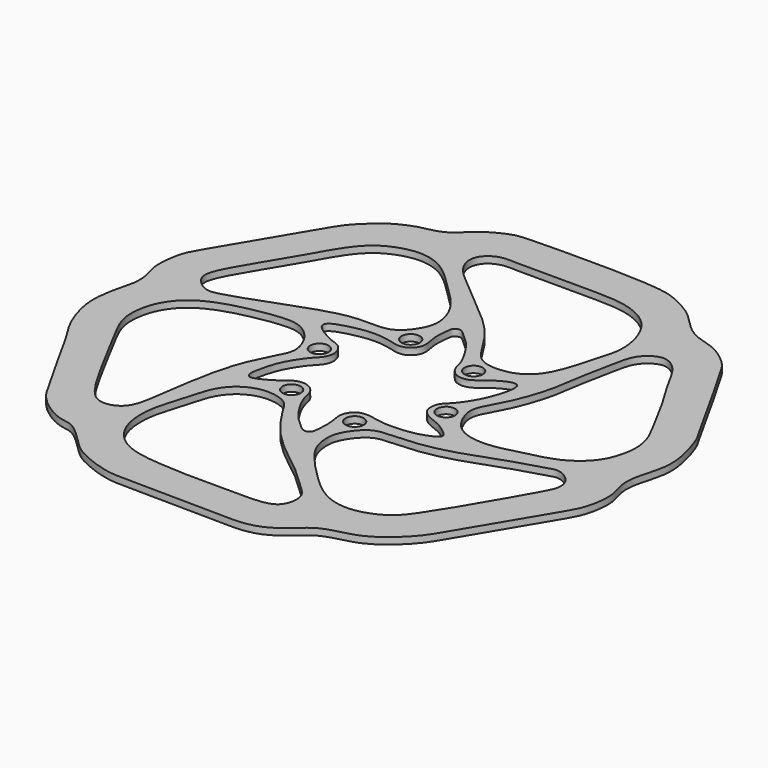
from build123d import *

# Parameters (mm, degrees)
F0_R     = 2.75
F1_DEPTH = 2


with BuildPart() as f1:
    # F0 (on Top) → F1 (new body)
    with BuildSketch(Plane.XY):
        with BuildLine():
            add(Edge.make_bspline(
                [(75.8951455355, 25.2666156739), (72.7695559852, 30.704777467), (61.0909880256, 52.0995373219), (58.2947218852, 56.0663811689), (52.5568238647, 60.5388395203), (47.974687152, 61.6135485886), (43.8285275087, 63.1961551669), (40.4924686315, 65.8703451213), (36.5355151891, 70.5069195072), (29.5956316097, 74.3386801617), (21.9201344434, 77.2327258752), (-15.5652607625, 76.8536806818), (-20.8974883789, 76.4256760394), (-26.1337112491, 73.9502564138), (-29.9045120085, 71.1229677276), (-32.7782298407, 67.882640912), (-36.6203720829, 66.1211520183), (-41.2736466996, 65.5087533335), (-47.4306224019, 62.7012388603), (-50.9956718005, 59.5826862536), (-54.9456448881, 55.8617354091), (-58.4376899011, 50.1886792965), (-71.9015498481, 27.1616871694), (-75.8858615037, 20.948745029), (-76.9134962313, 16.0351800218), (-77.264928961, 10.4811620627), (-75.7464244257, 6.6571529124), (-75.256942159, 1.9318160029), (-76.6393789244, -2.7423628902), (-78.0306784778, -9.6008106611), (-77.6852947168, -16.1766073534), (-74.6878004293, -24.623913846), (-71.1380115348, -29.7455868503), (-66.8710085475, -37.6335019341), (-58.1811225736, -53.1684938639), (-55.6952922978, -57.3104690491), (-51.7760562834, -61.0424506625), (-46.1104756436, -64.1598349054), (-42.1478924606, -64.1613837147), (-37.7332036467, -67.8427812492), (-33.5309761194, -72.4180556264), (-29.4006148459, -75.1144393122), (-20.767298482, -78.3475600598), (-14.3430159045, -78.3267325982), (-1.7622288923, -78.5820329894), (15.6945444701, -78.6870522516), (20.2213052783, -78.851793038), (26.4090578592, -77.7055216735), (32.0752453501, -73.4517149709), (35.0356343171, -70.3101177869), (39.3659916015, -68.3582322911), (44.8474710813, -67.2985644452), (50.345386024, -64.8597358709), (58.0122184304, -58.1788800028), (63.3353862388, -48.7510483691), (76.0167659289, -27.6141198566), (79.4623439322, -21.72204931), (80.6716746065, -13.1612465237), (78.5817709043, -8.3296024845), (78.5050196424, -3.033983596), (80.738267833, 3.6179912794), (81.5622241153, 10.7472368241), (78.2570359733, 21.4602915854), (77.1788593916, 23.033103073), (75.8951455355, 25.2666156739)],
                knots=[0, 0, 0, 0, 0.0326083544, 0.0470914405, 0.0622146413, 0.0752807875, 0.0875344419, 0.0996845738, 0.1143476155, 0.1303175661, 0.1482978033, 0.184322218, 0.1987619752, 0.2122653353, 0.2253069374, 0.2375414181, 0.2494532598, 0.2624064378, 0.2777250813, 0.2908020936, 0.3038926512, 0.3197399411, 0.3504373101, 0.3669355024, 0.379702113, 0.3935484944, 0.4056041666, 0.4182206086, 0.4313835866, 0.4469267907, 0.4623681769, 0.4799170991, 0.4944892321, 0.5126956281, 0.537722449, 0.5508960601, 0.5644028693, 0.5793591428, 0.5909174094, 0.6048417505, 0.6196106441, 0.6329687597, 0.6505975082, 0.6656111203, 0.6870703819, 0.711863658, 0.7245460474, 0.7390002926, 0.7547896372, 0.7670983206, 0.7797729666, 0.7937013511, 0.808257775, 0.8264906503, 0.8469497722, 0.8761650057, 0.8922931674, 0.9089398514, 0.9224785568, 0.9358376901, 0.9513442489, 0.9676851014, 0.9866073918, 1, 1, 1, 1], degree=3))
        make_face()
        with BuildLine():
            add(Edge.make_bspline(
                [(-13.5419592261, -67.1780854464), (-10.3114573953, -67.4606578747), (-4.567644643, -67.7763166203), (5.105665271, -67.5409783836), (16.0820025549, -67.9672474342), (21.7338671769, -66.7151317436), (23.4673109827, -63.3860796673), (23.7354215806, -59.0652293834), (19.8901140936, -55.2958339032), (12.0652778571, -47.9769036239), (6.2161777494, -43.9128147611), (0.1142851178, -38.36758284), (-4.1958513102, -33.0245500442), (-7.5530440098, -27.772968473), (-9.7955153224, -23.7618921674), (-15.7680955659, -22.0802583324), (-22.1363444113, -23.5281619482), (-27.552621071, -28.7328670537), (-29.2937497992, -37.5664440529), (-32.6583913856, -46.0785069067), (-32.4612290619, -57.3184040133), (-25.2993808878, -65.9243182318), (-17.1793918298, -66.8599187287), (-13.5419592261, -67.1780854464)],
                knots=[0, 0, 0, 0, 0.0523542224, 0.1070606025, 0.165443106, 0.2055713342, 0.2373918576, 0.2715894835, 0.3112793916, 0.3684416316, 0.4161562877, 0.4655873315, 0.5118536834, 0.5551493958, 0.5915747336, 0.6331388321, 0.6771129656, 0.7233368661, 0.7750474553, 0.8282688166, 0.8852685966, 0.9410509681, 1, 1, 1, 1], degree=3))
        make_face(mode=Mode.SUBTRACT)
        with BuildLine():
            add(Edge.make_bspline(
                [(-54.2876981199, 5.3316801786), (-56.5699341842, 4.4381092326), (-60.6933523308, 2.2312062329), (-65.6545362602, -3.9029735138), (-67.1193814024, -13.5268767906), (-63.4240165904, -21.1792118103), (-55.7023958159, -35.450252536), (-49.0599374287, -47.8907969423), (-43.8997390803, -52.126168453), (-36.4773620894, -49.8673691279), (-35.1899116933, -39.2740400622), (-33.1686015451, -25.9908052358), (-30.5208368463, -15.0154210158), (-26.1015388905, -6.792730482), (-23.7955929543, -2.0343121471), (-26.1091557652, 4.4504485465), (-31.0089502041, 8.8234623673), (-36.6912545673, 9.3374379516), (-45.8519060667, 7.8915577711), (-51.7186268064, 6.3375566171), (-54.2876981199, 5.3316801786)],
                knots=[0, 0, 0, 0, 0.0501080368, 0.1023318395, 0.159064636, 0.2136009821, 0.2906771375, 0.3623348628, 0.40785595, 0.4537980378, 0.5131024335, 0.5837444434, 0.6479780431, 0.704998294, 0.747123278, 0.7947782716, 0.8419353791, 0.8859903025, 0.9435943013, 1, 1, 1, 1], degree=3))
        make_face(mode=Mode.SUBTRACT)
        with Locations((-12.449584, -18.3119762417)):
            Circle(F0_R, mode=Mode.SUBTRACT)
        with BuildLine():
            add(Edge.make_bspline(
                [(13.4471775964, 11.7509076372), (14.579477873, 11.2608025044), (17.4062232858, 11.379821387), (20.357377561, 14.2991038065), (24.1172490177, 16.5173064972), (26.3997086013, 17.281323868), (27.7184367706, 16.9312307043), (28.5917710812, 14.9879148652), (26.3179611382, 6.5945672796), (21.7693649555, 0.0320494443), (19.2862741583, -1.896801467), (18.5285265615, -4.4313987118), (19.0641979613, -7.0655787957), (21.5322683396, -9.0745573943), (25.4186407744, -10.2362481162), (27.8054204045, -11.9572863931), (29.5914658675, -13.306081218), (30.4694646496, -14.721319894), (29.1380558974, -15.8864779956), (25.6031722747, -17.3322995555), (20.6925055836, -18.1822954746), (16.1807899381, -18.2198518316), (12.8581727994, -17.843400438), (9.6280625271, -16.9117042434), (6.6082176733, -17.5364180863), (4.9706750804, -19.5893204171), (4.4917446552, -21.650381349), (4.8962041435, -23.6624362586), (5.2756534676, -27.0139390699), (5.0205278977, -30.4454787766), (4.7875404, -31.9936561419), (3.7842808911, -32.9490723395), (2.1298102078, -32.6410809081), (0.4110514941, -30.9743151786), (-2.2493511007, -28.8736763731), (-5.8134924171, -23.7269603041), (-7.6169004531, -19.7546329284), (-7.9452472161, -17.161200994), (-9.1999354067, -15.0184318981), (-11.5689238088, -13.6737558874), (-14.5970225626, -13.9288263), (-16.636798462, -15.7490648848), (-20.0574968087, -18.0382005799), (-22.8811646577, -19.3054046552), (-24.7221477379, -19.5572386238), (-25.4943276215, -17.6623273147), (-24.9527349066, -15.1387465315), (-24.0717814227, -11.3821667445), (-22.8124389567, -8.1638834914), (-19.5967616552, -2.96325273), (-16.8016202981, -0.7111815569), (-15.8171147225, 2.6706802415), (-17.1995711634, 5.6432176127), (-19.1278990274, 6.8123135863), (-21.1459883103, 7.2882049065), (-24.0304978631, 8.8763288507), (-26.3600241084, 10.4309168476), (-27.3279055664, 11.5754990822), (-27.5066363164, 12.7882059527), (-26.154308109, 14.1735334098), (-21.7727591742, 15.4384154795), (-16.6193647642, 16.4922308067), (-11.0277084489, 16.1411260308), (-7.3534010573, 14.7901968272), (-4.531076902, 15.2753163504), (-2.4923128699, 17.3122145447), (-1.9414521248, 19.9152325201), (-3.1177611787, 23.978533195), (-2.4592866014, 28.2922880512), (-2.2884501767, 30.0605848676), (-0.2033413731, 30.7147338677), (1.279904851, 29.1599559184), (5.3012894235, 26.008606606), (8.8018986478, 20.1785799795), (10.3019860185, 16.9363839324), (10.6846685118, 14.1146983378), (12.3411698201, 12.2296323176), (13.4471775964, 11.7509076372)],
                knots=[0, 0, 0, 0, 0.0146324669, 0.0302077785, 0.0463084149, 0.0579123241, 0.0659426358, 0.0757562293, 0.0981718707, 0.1201651601, 0.1332649691, 0.1451113548, 0.1571852113, 0.1705036987, 0.1859343822, 0.1991213816, 0.2106008746, 0.2193927518, 0.2283557972, 0.2432964124, 0.2606613341, 0.2768833328, 0.2908420496, 0.3047633046, 0.3177847323, 0.3298005298, 0.3406166264, 0.3514235378, 0.3656363615, 0.3799205092, 0.3892793006, 0.3975077419, 0.4067863726, 0.4183689287, 0.4325381146, 0.4517740498, 0.4678194072, 0.4799187003, 0.4916110112, 0.5039536161, 0.5167213707, 0.5292953573, 0.5449145149, 0.5585509435, 0.5679158208, 0.5776420153, 0.5900216046, 0.6048822809, 0.6194328228, 0.638156494, 0.6527194388, 0.6663735502, 0.6797591195, 0.6908935755, 0.7018211262, 0.7157847325, 0.7286970676, 0.7377845459, 0.7455014705, 0.7553343707, 0.7715160835, 0.7894565876, 0.8075027404, 0.8224915021, 0.8349337389, 0.8473854641, 0.8594356304, 0.8752434199, 0.8912434784, 0.9008443429, 0.9106981719, 0.921262428, 0.9386143136, 0.958754736, 0.9730933516, 0.9857073053, 1, 1, 1, 1], degree=3))
        make_face(mode=Mode.SUBTRACT)
        with Locations((9.3321334442, -21.7152591308)):
            Circle(F0_R, mode=Mode.SUBTRACT)
        with BuildLine():
            add(Edge.make_bspline(
                [(27.6993885636, -55.2882403135), (25.0048621508, -53.8254144196), (20.0308597186, -49.2799896213), (11.2193651659, -40.2000397947), (9.4807779384, -34.8101542904), (9.2102661095, -29.1718096207), (13.598590544, -23.3070836866), (17.7281415474, -21.5245410004), (27.8613105074, -21.8980346056), (40.1689159806, -18.5876030224), (47.3492346023, -15.572186625), (59.0275772928, -12.0498348571), (62.9868235237, -10.7964913041), (67.3935253196, -13.7729865505), (68.3386541382, -17.9251757108), (65.6968865634, -23.0689949369), (51.1606196743, -48.4820834287), (45.2493570118, -54.9976398104), (35.8007588088, -58.1938796413), (30.1785507857, -56.6341475856), (27.6993885636, -55.2882403135)],
                knots=[0, 0, 0, 0, 0.0607910894, 0.1289141824, 0.17399953, 0.2184948976, 0.2687740663, 0.3085007448, 0.369307393, 0.437978524, 0.4940152165, 0.5603325369, 0.5990338307, 0.6404842016, 0.6769373904, 0.7231167782, 0.8271258983, 0.8866629282, 0.9440677325, 1, 1, 1, 1], degree=3))
        make_face(mode=Mode.SUBTRACT)
        with Locations((23.1357328594, -4.4749639928)):
            Circle(F0_R, mode=Mode.SUBTRACT)
        with Locations((-20.3749021715, 2.0699496588)):
            Circle(F0_R, mode=Mode.SUBTRACT)
        with BuildLine():
            add(Edge.make_bspline(
                [(-20.7654517144, 49.8233027756), (-22.3836452927, 51.2805992926), (-25.8922493644, 54.0438862502), (-33.0005675157, 55.8982561539), (-42.0472804377, 53.0421040168), (-48.2662133588, 46.7965662446), (-54.8349522527, 33.7815020031), (-65.2529968201, 18.0615755202), (-65.2798272508, 12.6479497478), (-60.8758478114, 8.8494226887), (-56.5580978965, 8.8155842688), (-40.2893249952, 14.9969833461), (-31.8921596519, 17.9837808077), (-23.7863376563, 20.0199941955), (-17.0920998482, 19.6089336834), (-12.3464106053, 20.2780790775), (-8.5364239197, 24.4181525553), (-6.078677832, 30.0981669974), (-8.9924902096, 38.5449436786), (-15.7013362617, 44.8107560156), (-19.0795843808, 48.305061308), (-20.7654517144, 49.8233027756)],
                knots=[0, 0, 0, 0, 0.0474267434, 0.0967847653, 0.1523322304, 0.2060467226, 0.2787587746, 0.3591158582, 0.399108909, 0.4400943922, 0.4780111326, 0.5547038439, 0.6128155822, 0.6653188932, 0.7132936475, 0.7527547724, 0.7953625635, 0.8403235332, 0.894095293, 0.9505898438, 1, 1, 1, 1], degree=3))
        make_face(mode=Mode.SUBTRACT)
        with Locations((-6.5713027563, 19.3102447968)):
            Circle(F0_R, mode=Mode.SUBTRACT)
        with Locations((15.1277463397, 15.9734558152)):
            Circle(F0_R, mode=Mode.SUBTRACT)
        with BuildLine():
            add(Edge.make_bspline(
                [(35.3318154812, 21.0917349905), (35.7283448196, 22.9744141842), (36.1187404427, 26.7166113796), (37.3602334774, 33.06645187), (38.7243911169, 39.9235117108), (39.7908367638, 45.3654710155), (43.2493304466, 48.6437168519), (47.0596706134, 49.5973969883), (51.6347090988, 46.3149527627), (55.2644896666, 38.7503938319), (60.3580920887, 30.9088798996), (64.6152180738, 22.3957220645), (68.9433173395, 15.0690275534), (70.0317891358, 8.5560135292), (68.2823819541, 1.2273212123), (64.825108663, -3.3888910658), (58.9725563491, -7.4785932439), (49.5013614174, -9.4993658873), (40.6997495962, -12.0188525608), (31.7338700279, -10.3913698849), (28.0079060575, -4.6578186463), (26.7523554132, -0.0292472905), (28.4404143045, 4.0166984398), (31.8543308859, 9.9316069644), (33.6688570691, 15.130725605), (34.9196362783, 19.1347519019), (35.3318154812, 21.0917349905)],
                knots=[0, 0, 0, 0, 0.0386261583, 0.0800073681, 0.1232924243, 0.1612343102, 0.1954137102, 0.2256821218, 0.2620451742, 0.3091228451, 0.3592736952, 0.4097126432, 0.4567128467, 0.4980162457, 0.5417035682, 0.580203489, 0.6227560596, 0.6732627186, 0.7230069008, 0.7701231689, 0.8112248208, 0.8455697185, 0.8788555566, 0.9211597776, 0.9598493791, 1, 1, 1, 1], degree=3))
        make_face(mode=Mode.SUBTRACT)
        with BuildLine():
            add(Edge.make_bspline(
                [(-11.0973613337, 65.4634162784), (-8.4870847162, 65.376437535), (-1.5515024134, 65.4967166884), (8.4106785235, 65.3105619974), (19.4543748833, 65.6090101179), (27.2191419255, 63.093209439), (33.2100056037, 58.0613252543), (36.390415767, 46.9490203378), (33.3306629125, 38.2149145748), (30.6845906468, 27.2770608923), (24.8885661761, 20.5032058024), (15.7430679827, 19.9525556105), (11.424759096, 22.5450153115), (7.4053886886, 29.9283546652), (2.2501592656, 36.3128842025), (-5.1576354405, 42.4083484096), (-14.5434432405, 50.3019620582), (-19.7694940547, 54.8345076524), (-21.6585894468, 59.6295767265), (-20.0614069584, 63.5681451516), (-15.8951937265, 65.7977144362), (-12.9954357103, 65.5266632626), (-11.0973613337, 65.4634162784)],
                knots=[0, 0, 0, 0, 0.0542040775, 0.1117058701, 0.1707444565, 0.2207665784, 0.269420214, 0.3278322637, 0.3823776002, 0.4417620887, 0.493465128, 0.5446642222, 0.5833984005, 0.634067104, 0.685306926, 0.7409731135, 0.8037447258, 0.8506559155, 0.888935536, 0.9237430727, 0.9605852614, 1, 1, 1, 1], degree=3))
        make_face(mode=Mode.SUBTRACT)
    extrude(amount=F1_DEPTH)


solid = f1.part
